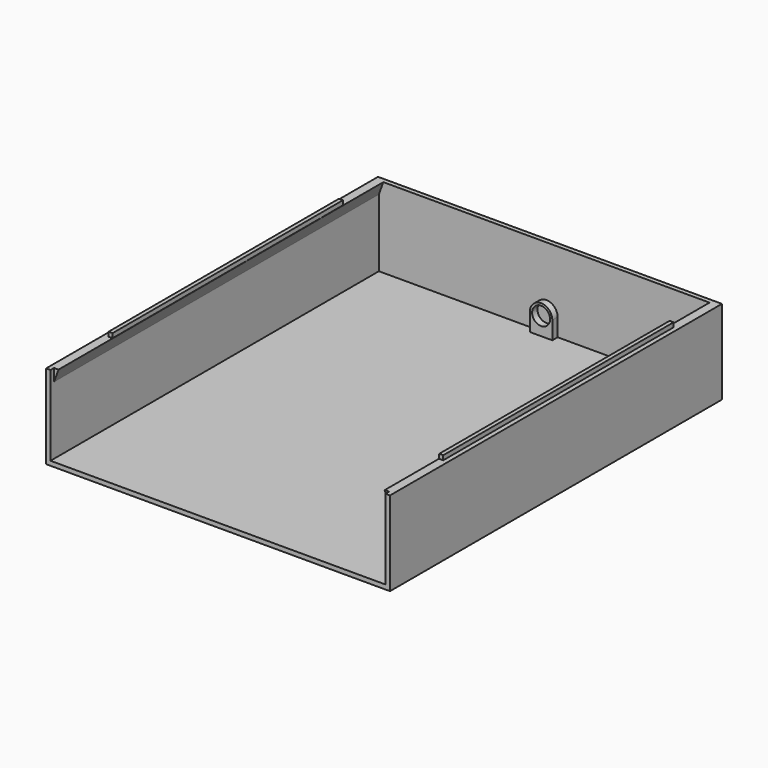
from build123d import *

# Parameters (mm, degrees)
SKETCH049_W  = 155
SKETCH049_H  = 187
PAD013_DEPTH = 2
PAD014_DEPTH = 36
PAD015_DEPTH = 183
SKETCH055_W  = 1.8
SKETCH055_H  = 129.8
PAD016_DEPTH = 2
SKETCH081_R  = 4.05
PAD027_DEPTH = 3


with BuildPart() as part:
    # Sketch049 → Pad013 (new body)
    with BuildSketch(Plane.XY):
        with Locations((0, -4)):
            Rectangle(SKETCH049_W, SKETCH049_H)
    extrude(amount=PAD013_DEPTH)

    # Sketch050 (on DatumPlane) → Pad014 (join)
    with BuildSketch(Plane.XY.offset(2)):
        Polygon((-77.5, -97.5), (-77.5, 89.5), (77.5, 89.5), (77.5, -97.5), (75.5, -97.5), (75.5, 87.5), (-75.5, 87.5), (-75.5, -97.5), align=None)
    extrude(amount=PAD014_DEPTH)

    # Sketch051 (on DatumPlane) → Pad015 (join)
    with BuildSketch(Plane.XZ.offset(95.5)):
        Polygon((-75.5, 32.505045), (-75.5, 38), (-73.5, 38), align=None)
    pad015 = extrude(amount=-PAD015_DEPTH)

    # Mirrored006: Pad015 across Sketch051 V_Axis
    add(pad015.mirror(Plane(origin=(0, -95.5, 0), x_dir=(0, -1, 0), z_dir=(1, 0, 0))))

    # Sketch055 (on DatumPlane) → Pad016 (join)
    with BuildSketch(Plane.XY.offset(38)):
        with Locations((74.5, 0)):
            Rectangle(SKETCH055_W, SKETCH055_H)
    pad016 = extrude(amount=PAD016_DEPTH)

    # Mirrored008: Pad016 across Sketch055 V_Axis
    add(pad016.mirror(Plane(origin=(0, 0, 38), x_dir=(0, 0, 1), z_dir=(1, 0, 0))))

    # Sketch081 (on DatumPlane) → Pad027 (join)
    with BuildSketch(Plane.XZ.offset(-87.5)):
        with BuildLine():
            ThreePointArc((5.05, 10.05), (0, 15.1), (-5.05, 10.05))
            Line((-5.05, 10.05), (-5.05, 2))
            Line((-5.05, 2), (5.05, 2))
            Line((5.05, 2), (5.05, 10.05))
        make_face()
        with Locations((0, 10.05)):
            Circle(SKETCH081_R, mode=Mode.SUBTRACT)
    extrude(amount=PAD027_DEPTH)


with BuildPart() as part_1:
    # Body006 placement: moved
    add(part.part.moved(Location((0, 0, -73))))


solid = part_1.part
